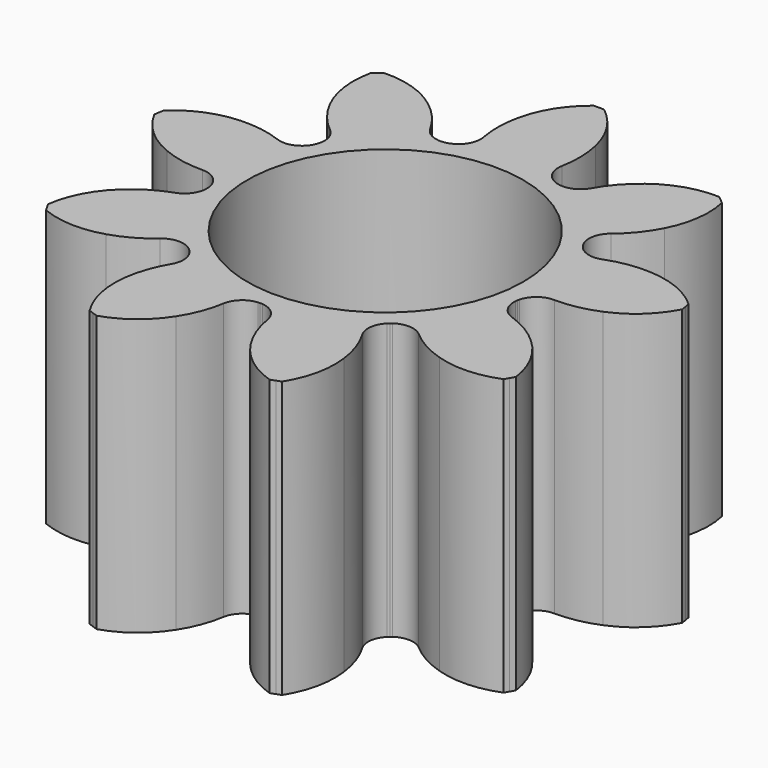
from build123d import *

# Parameters (mm, degrees)
F0_R     = 5
F1_DEPTH = 10


with BuildPart() as f1:
    # F0 (on Top) → F1 (new body)
    with BuildSketch(Plane.XY):
        with BuildLine():
            ThreePointArc((1.864316, 5.3522), (1.490455, 5.713083), (1.417156, 6.227511))
            ThreePointArc((1.417156, 6.227511), (1.483836, 7.003606), (1.389552, 7.776834))
            ThreePointArc((1.389552, 7.776834), (0.955753, 8.832789), (0.188574, 9.678163))
            Line((0.188574, 9.678163), (0, 9.68))
            Line((0, 9.68), (-0.188574, 9.678163))
            ThreePointArc((-0.188574, 9.678163), (-0.955753, 8.832789), (-1.389552, 7.776834))
            ThreePointArc((-1.389552, 7.776834), (-1.483836, 7.003606), (-1.417156, 6.227511))
            ThreePointArc((-1.417156, 6.227511), (-1.490455, 5.713083), (-1.864316, 5.3522))
            ThreePointArc((-1.864316, 5.3522), (-1.900395, 5.336418), (-1.937206, 5.32243))
            ThreePointArc((-1.937206, 5.32243), (-1.974396, 5.309483), (-2.012179, 5.298382))
            ThreePointArc((-2.012179, 5.298382), (-2.530544, 5.334521), (-2.917363, 5.68148))
            ThreePointArc((-2.917363, 5.68148), (-3.365147, 6.318865), (-3.934394, 6.850587))
            ThreePointArc((-3.934394, 6.850587), (-4.945458, 7.380655), (-6.076547, 7.535116))
            Line((-6.076547, 7.535116), (-6.222184, 7.41531))
            Line((-6.222184, 7.41531), (-6.365459, 7.29269))
            ThreePointArc((-6.365459, 7.29269), (-6.409757, 6.151962), (-6.063311, 5.064213))
            ThreePointArc((-6.063311, 5.064213), (-5.638516, 4.411282), (-5.088571, 3.85962))
            ThreePointArc((-5.088571, 3.85962), (-4.814053, 3.418429), (-4.868477, 2.901664))
            ThreePointArc((-4.868477, 2.901664), (-4.88597, 2.866383), (-4.905178, 2.832006))
            ThreePointArc((-4.905178, 2.832006), (-4.925345, 2.798183), (-4.947153, 2.765393))
            ThreePointArc((-4.947153, 2.765393), (-5.367473, 2.459878), (-5.886814, 2.477022))
            ThreePointArc((-5.886814, 2.477022), (-6.63954, 2.677457), (-7.417393, 2.718875))
            ThreePointArc((-7.417393, 2.718875), (-8.532634, 2.475031), (-9.498384, 1.866304))
            Line((-9.498384, 1.866304), (-9.532939, 1.680914))
            Line((-9.532939, 1.680914), (-9.563876, 1.494886))
            ThreePointArc((-9.563876, 1.494886), (-8.864564, 0.592564), (-7.899979, -0.018009))
            ThreePointArc((-7.899979, -0.018009), (-7.154871, -0.24513), (-6.378987, -0.31423))
            ThreePointArc((-6.378987, -0.31423), (-5.885103, -0.475745), (-5.594623, -0.906593))
            ThreePointArc((-5.594623, -0.906593), (-5.585346, -0.944864), (-5.577963, -0.983545))
            ThreePointArc((-5.577963, -0.983545), (-5.571671, -1.022419), (-5.567299, -1.061555))
            ThreePointArc((-5.567299, -1.061555), (-5.692902, -1.56577), (-6.10176, -1.886463))
            ThreePointArc((-6.10176, -1.886463), (-6.807219, -2.216763), (-7.429712, -2.685029))
            ThreePointArc((-7.429712, -2.685029), (-8.127296, -3.588688), (-8.475822, -4.675772))
            Line((-8.475822, -4.675772), (-8.383126, -4.84))
            Line((-8.383126, -4.84), (-8.287248, -5.002391))
            ThreePointArc((-8.287248, -5.002391), (-7.171543, -5.244101), (-6.04016, -5.091804))
            ThreePointArc((-6.04016, -5.091804), (-5.323383, -4.786843), (-4.684605, -4.341048))
            ThreePointArc((-4.684605, -4.341048), (-4.202447, -4.147313), (-3.702983, -4.290645))
            ThreePointArc((-3.702983, -4.290645), (-3.671276, -4.313999), (-3.640757, -4.338885))
            ThreePointArc((-3.640757, -4.338885), (-3.610949, -4.364619), (-3.582444, -4.391789))
            ThreePointArc((-3.582444, -4.391789), (-3.354559, -4.858776), (-3.461625, -5.36725))
            ThreePointArc((-3.461625, -5.36725), (-3.789724, -6.073735), (-3.965586, -6.832579))
            ThreePointArc((-3.965586, -6.832579), (-3.919106, -7.973219), (-3.487328, -9.030002))
            Line((-3.487328, -9.030002), (-3.310755, -9.096225))
            Line((-3.310755, -9.096225), (-3.132925, -9.158994))
            ThreePointArc((-3.132925, -9.158994), (-2.122877, -8.626993), (-1.354082, -7.783088))
            ThreePointArc((-1.354082, -7.783088), (-1.001025, -7.088739), (-0.798243, -6.336642))
            ThreePointArc((-0.798243, -6.336642), (-0.55342, -5.878307), (-0.078676, -5.667056))
            ThreePointArc((-0.078676, -5.667056), (-0.039376, -5.664566), (0, -5.664012))
            ThreePointArc((0, -5.664012), (0.039376, -5.664566), (0.078676, -5.667056))
            ThreePointArc((0.078676, -5.667056), (0.55342, -5.878307), (0.798243, -6.336642))
            ThreePointArc((0.798243, -6.336642), (1.001025, -7.088739), (1.354082, -7.783088))
            ThreePointArc((1.354082, -7.783088), (2.122877, -8.626993), (3.132925, -9.158994))
            Line((3.132925, -9.158994), (3.310755, -9.096225))
            Line((3.310755, -9.096225), (3.487328, -9.030002))
            ThreePointArc((3.487328, -9.030002), (3.919106, -7.973219), (3.965586, -6.832579))
            ThreePointArc((3.965586, -6.832579), (3.789724, -6.073735), (3.461625, -5.36725))
            ThreePointArc((3.461625, -5.36725), (3.354559, -4.858776), (3.582444, -4.391789))
            ThreePointArc((3.582444, -4.391789), (3.610949, -4.364619), (3.640757, -4.338885))
            ThreePointArc((3.640757, -4.338885), (3.671276, -4.313999), (3.702983, -4.290645))
            ThreePointArc((3.702983, -4.290645), (4.202447, -4.147313), (4.684605, -4.341048))
            ThreePointArc((4.684605, -4.341048), (5.323383, -4.786843), (6.04016, -5.091804))
            ThreePointArc((6.04016, -5.091804), (7.171543, -5.244101), (8.287248, -5.002391))
            Line((8.287248, -5.002391), (8.383126, -4.84))
            Line((8.383126, -4.84), (8.475822, -4.675772))
            ThreePointArc((8.475822, -4.675772), (8.127296, -3.588688), (7.429712, -2.685029))
            ThreePointArc((7.429712, -2.685029), (6.807219, -2.216763), (6.10176, -1.886463))
            ThreePointArc((6.10176, -1.886463), (5.692902, -1.56577), (5.567299, -1.061555))
            ThreePointArc((5.567299, -1.061555), (5.571671, -1.022419), (5.577963, -0.983545))
            ThreePointArc((5.577963, -0.983545), (5.585346, -0.944864), (5.594623, -0.906593))
            ThreePointArc((5.594623, -0.906593), (5.885103, -0.475745), (6.378987, -0.31423))
            ThreePointArc((6.378987, -0.31423), (7.154871, -0.24513), (7.899979, -0.018009))
            ThreePointArc((7.899979, -0.018009), (8.864564, 0.592564), (9.563876, 1.494886))
            Line((9.563876, 1.494886), (9.532939, 1.680914))
            Line((9.532939, 1.680914), (9.498384, 1.866304))
            ThreePointArc((9.498384, 1.866304), (8.532634, 2.475031), (7.417393, 2.718875))
            ThreePointArc((7.417393, 2.718875), (6.63954, 2.677457), (5.886814, 2.477022))
            ThreePointArc((5.886814, 2.477022), (5.367473, 2.459878), (4.947153, 2.765393))
            ThreePointArc((4.947153, 2.765393), (4.925345, 2.798183), (4.905178, 2.832006))
            ThreePointArc((4.905178, 2.832006), (4.88597, 2.866383), (4.868477, 2.901664))
            ThreePointArc((4.868477, 2.901664), (4.814053, 3.418429), (5.088571, 3.85962))
            ThreePointArc((5.088571, 3.85962), (5.638516, 4.411282), (6.063311, 5.064213))
            ThreePointArc((6.063311, 5.064213), (6.409757, 6.151962), (6.365459, 7.29269))
            Line((6.365459, 7.29269), (6.222184, 7.41531))
            Line((6.222184, 7.41531), (6.076547, 7.535116))
            ThreePointArc((6.076547, 7.535116), (4.945458, 7.380655), (3.934394, 6.850587))
            ThreePointArc((3.934394, 6.850587), (3.365147, 6.318865), (2.917363, 5.68148))
            ThreePointArc((2.917363, 5.68148), (2.530544, 5.334521), (2.012179, 5.298382))
            ThreePointArc((2.012179, 5.298382), (1.974396, 5.309483), (1.937206, 5.32243))
            ThreePointArc((1.937206, 5.32243), (1.900395, 5.336418), (1.864316, 5.3522))
        make_face()
        Circle(F0_R, mode=Mode.SUBTRACT)
    extrude(amount=F1_DEPTH)


solid = f1.part
